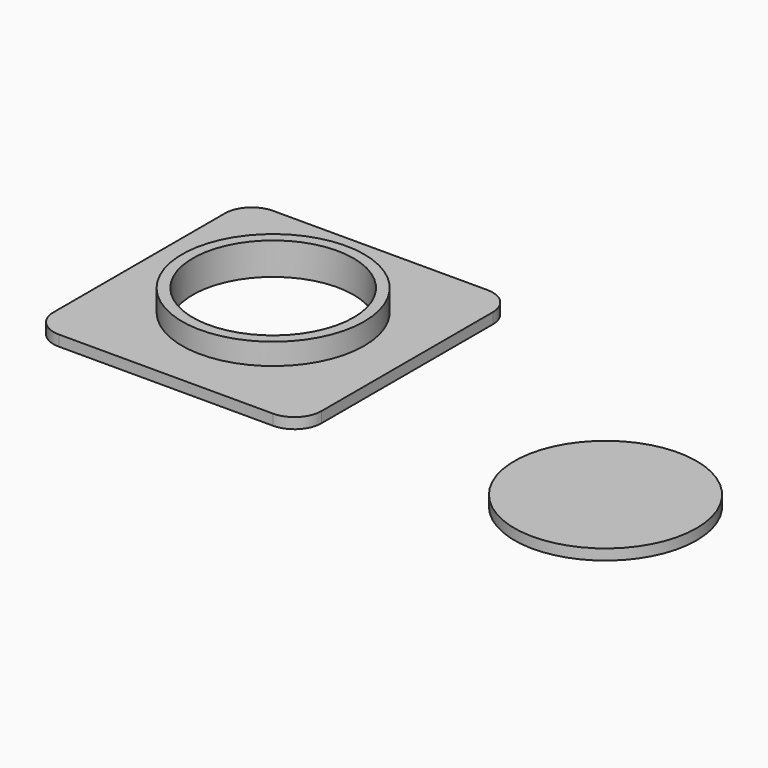
from build123d import *

# Parameters (mm, degrees)
F0_W     = 50
F0_H     = 50
F0_R     = 15
F0_R_2   = 17
F1_DEPTH = 2
F2_R     = 5
F3_R     = 17
F3_R_2   = 15
F4_DEPTH = 4


with BuildPart() as f1:
    # F0 (on Top) → F1 (new body)
    with BuildSketch(Plane.XY):
        Rectangle(F0_W, F0_H)
        Circle(F0_R, mode=Mode.SUBTRACT)
        with Locations((73.811419, -14.696962)):
            Circle(F0_R_2)
    extrude(amount=F1_DEPTH)

    # F2
    f2_edges = [f1.edges().sort_by_distance(p)[0] for p in [
        (25, -25, 1),
        (25, 25, 1),
        (-25, -25, 1),
        (-25, 25, 1),
    ]]
    fillet(f2_edges, radius=F2_R)

    # F3 (on face) → F4 (join)
    with BuildSketch(Plane.XY.offset(2)):
        Circle(F3_R)
        Circle(F3_R_2, mode=Mode.SUBTRACT)
    extrude(amount=F4_DEPTH)


solid = f1.part
